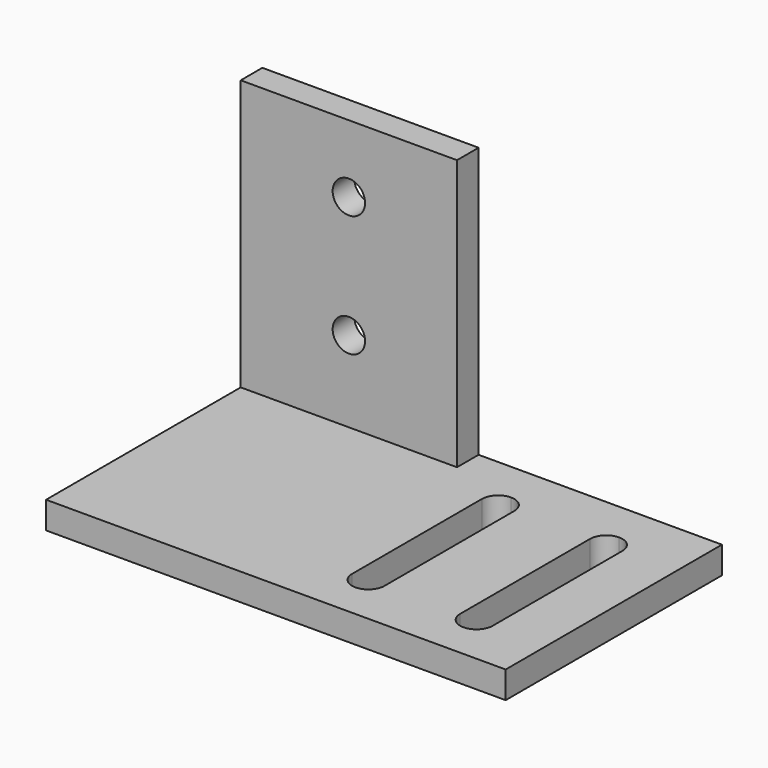
from build123d import *

# Parameters (mm, degrees)
F0_W      = 80
F0_H      = 100
F1_DEPTH  = 5
F2_W      = 170
F2_H      = 100
F3_DEPTH  = 10
F4_R      = 6
F5_DEPTH  = 10
F7_DEPTH  = 25
F5_FACE_R = 6
F8_DEPTH  = 50


with BuildPart() as f1:
    # F0 (on Front) → F1 (new body, symmetric)
    with BuildSketch(Plane.XZ):
        Rectangle(F0_W, F0_H)
    extrude(amount=F1_DEPTH, both=True)

    # F2 (on face) → F3 (join)
    with BuildSketch(Plane(origin=(0, 0, -50), x_dir=(1, 0, 0), z_dir=(0, 0, -1))):
        with Locations((45, 45)):
            Rectangle(F2_W, F2_H)
    extrude(amount=F3_DEPTH)

    # F4 (on face) → F5 (join)
    with BuildSketch(Plane.XZ.offset(5)):
        with Locations((0, 25)):
            Circle(F4_R)
        with Locations((0, -20)):
            Circle(F4_R)
    extrude(amount=F5_DEPTH)

    # F6 (on face) → F7 (cut)
    with BuildSketch(Plane.XY.offset(-50)):
        with BuildLine():
            ThreePointArc((104, -10), (99.757359, -11.757359), (98, -16))
            Line((98, -16), (98, -76))
            ThreePointArc((98, -76), (99.757359, -80.242641), (104, -82))
            ThreePointArc((104, -82), (108.242641, -80.242641), (110, -76))
            Line((110, -76), (110, -16))
            ThreePointArc((110, -16), (108.242641, -11.757359), (104, -10))
        make_face()
        with BuildLine():
            ThreePointArc((64, -10), (59.757359, -11.757359), (58, -16))
            Line((58, -16), (58, -76))
            ThreePointArc((58, -76), (59.757359, -80.242641), (64, -82))
            ThreePointArc((64, -82), (68.242641, -80.242641), (70, -76))
            Line((70, -76), (70, -16))
            ThreePointArc((70, -16), (68.242641, -11.757359), (64, -10))
        make_face()
    extrude(amount=-F7_DEPTH, mode=Mode.SUBTRACT)

    # F5_face (on face) → F8 (cut)
    with BuildSketch(Plane(origin=(0, -15, 25), x_dir=(1, 0, 0), z_dir=(0, -1, 0))):
        Circle(F5_FACE_R)
        with Locations((0, -45)):
            Circle(F5_FACE_R)
    extrude(amount=-F8_DEPTH, mode=Mode.SUBTRACT)


solid = f1.part
